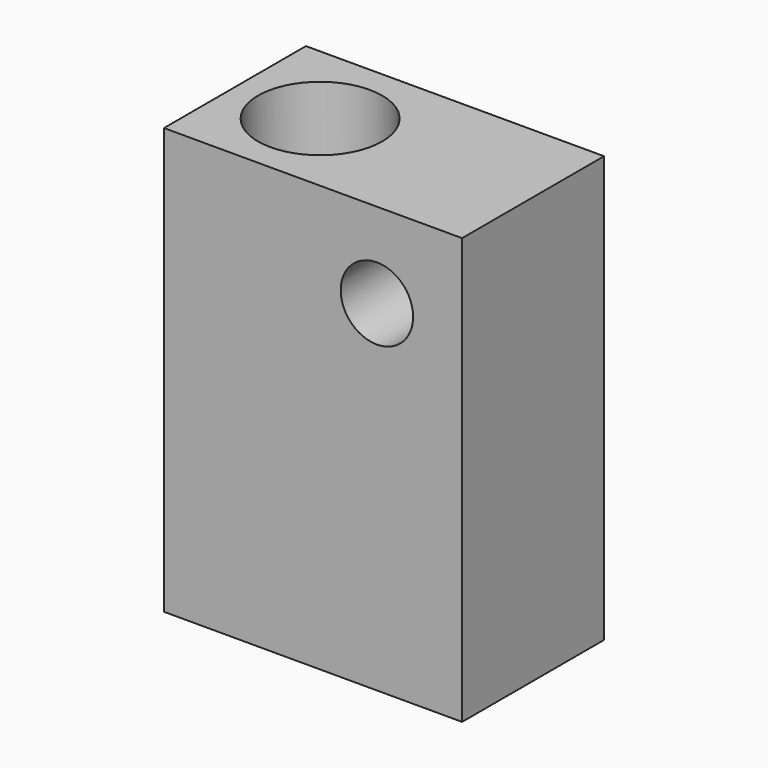
from build123d import *

# Parameters (mm, degrees)
F0_W      = 42
F0_H      = 25
F1_DEPTH  = 60
F3_R      = 8.75
F4_DEPTH  = 35
F6_R      = 5.1
F7_DEPTH  = 100
F9_R      = 5.1
F10_DEPTH = 80


with BuildPart() as f1:
    # F0 (on Top) → F1 (new body)
    with BuildSketch(Plane.XY):
        with Locations((21, 12.5)):
            Rectangle(F0_W, F0_H)
    extrude(amount=F1_DEPTH)

    # F3 (on offset) → F4 (cut)
    with BuildSketch(Plane.XY.offset(60)):
        with Locations((12, 12.5)):
            Circle(F3_R)
    extrude(amount=-F4_DEPTH, mode=Mode.SUBTRACT)

    # F6 (on offset) → F7 (cut)
    with BuildSketch(Plane.XY.offset(60)):
        with Locations((12, 12.5)):
            Circle(F6_R)
    extrude(amount=-F7_DEPTH, mode=Mode.SUBTRACT)

    # F9 (on offset) → F10 (cut)
    with BuildSketch(Plane.XZ):
        with Locations((30, 48)):
            Circle(F9_R)
    extrude(amount=-F10_DEPTH, mode=Mode.SUBTRACT)


solid = f1.part
